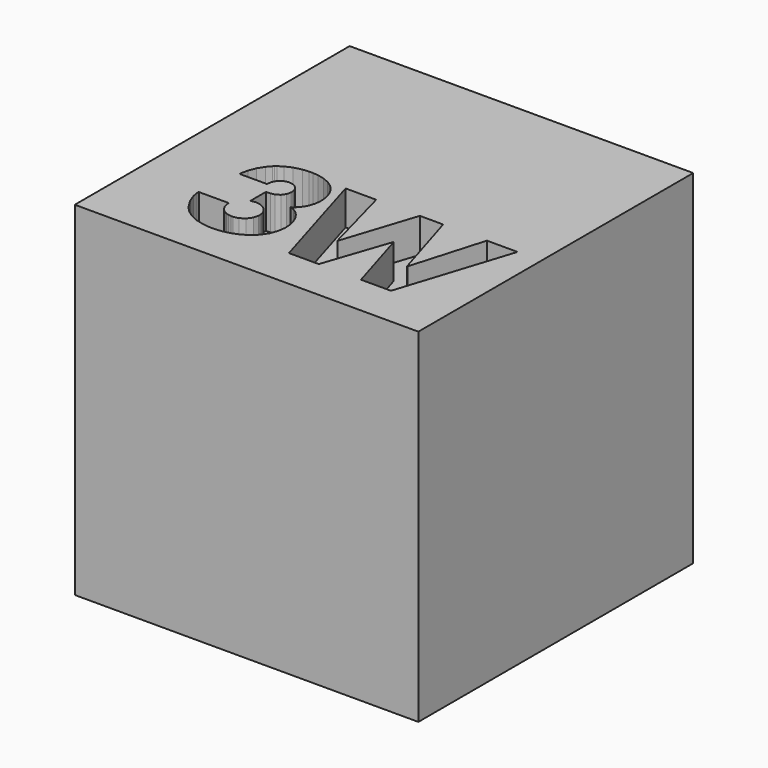
from build123d import *

# Parameters (mm, degrees)
F1_DEPTH = 36
F0_W     = 40
F0_H     = 40
F2_DEPTH = 40


with BuildPart() as f1:
    # F0 (on Top) → F1 (new body)
    with BuildSketch(Plane.XY):
        Polygon((3.101004, -10.608389), (3.065746, -10.608389), (0.779772, -2.113194), (-2.783486, -2.113194), (1.146619, -15.272514), (4.618077, -15.272514), (7.200689, -7.644909), (7.235946, -7.644909), (9.536348, -15.272514), (13.029041, -15.272514), (17.234143, -2.113194), (13.670884, -2.113194), (11.194501, -10.608389), (11.159193, -10.608389), (8.576581, -2.113194), (5.860053, -2.113194), align=None)
        Polygon((-12.065109, -5.657147), (-12.090155, -5.902169), (-8.900907, -5.902169), (-8.903396, -5.753063), (-8.811646, -5.30488), (-8.53599, -4.823371), (-8.093396, -4.501942), (-7.651259, -4.385146), (-7.503778, -4.385146), (-7.371285, -4.385146), (-6.97294, -4.479131), (-6.547974, -4.746761), (-6.265765, -5.164868), (-6.163143, -5.574948), (-6.163143, -5.711709), (-6.163143, -5.863254), (-6.275062, -6.31865), (-6.586788, -6.773437), (-7.062302, -7.058949), (-7.515362, -7.158167), (-7.666144, -7.158167), (-8.012111, -7.158167), (-8.012111, -9.444141), (-7.964408, -9.430119), (-7.723501, -9.370071), (-7.495244, -9.338319), (-7.419192, -9.338319), (-7.330998, -9.338319), (-7.065807, -9.373119), (-6.73122, -9.473962), (-6.423914, -9.634093), (-6.152983, -9.847109), (-5.926707, -10.107067), (-5.754384, -10.406956), (-5.644446, -10.74068), (-5.605887, -11.011916), (-5.605887, -11.102294), (-5.605887, -11.283457), (-5.745849, -11.82725), (-6.131747, -12.383744), (-6.713287, -12.740329), (-7.258807, -12.86632), (-7.440427, -12.86632), (-7.538274, -12.86632), (-7.831253, -12.828523), (-8.185654, -12.720821), (-8.498548, -12.54992), (-8.765314, -12.322781), (-8.981175, -12.046871), (-9.141255, -11.729099), (-9.240828, -11.376578), (-9.274968, -11.091321), (-9.274968, -10.996472), (-12.767661, -10.996472), (-12.77457, -11.21782), (-12.657927, -11.886791), (-12.32334, -12.784172), (-11.834921, -13.61683), (-11.421234, -14.152088), (-11.26466, -14.312778), (-11.075064, -14.506286), (-10.416608, -14.999647), (-9.469847, -15.458285), (-8.43982, -15.714615), (-7.616256, -15.794543), (-7.341768, -15.794543), (-7.098931, -15.794543), (-6.370469, -15.725091), (-5.438289, -15.517825), (-4.572812, -15.173845), (-3.802438, -14.693697), (-3.154753, -14.07878), (-2.657546, -13.329642), (-2.338606, -12.447959), (-2.22623, -11.687441), (-2.22623, -11.43424), (-2.22623, -11.305454), (-2.261233, -10.919658), (-2.365074, -10.39898), (-2.536534, -9.889326), (-2.774951, -9.408122), (-3.078701, -8.972894), (-3.446615, -8.601068), (-3.878033, -8.310273), (-4.244016, -8.151209), (-4.371074, -8.117934), (-4.199614, -8.021967), (-3.751483, -7.615951), (-3.323418, -6.956937), (-3.075399, -6.202566), (-2.995181, -5.612237), (-2.995181, -5.415427), (-2.995181, -5.197382), (-3.079209, -4.543905), (-3.320929, -3.778713), (-3.704643, -3.123001), (-4.214246, -2.579513), (-4.834396, -2.151753), (-5.549344, -1.842212), (-6.343442, -1.654241), (-6.986453, -1.591195), (-7.200638, -1.591195), (-7.444288, -1.591195), (-8.174934, -1.663335), (-9.066879, -1.878637), (-9.863975, -2.233901), (-10.395068, -2.586981), (-10.552252, -2.726993), (-10.709029, -2.866447), (-11.126883, -3.344908), (-11.583295, -4.078907), (-11.908535, -4.930616), align=None)
    extrude(amount=F1_DEPTH)

    # F0 (on Top) → F2 (join)
    with BuildSketch(Plane.XY):
        Rectangle(F0_W, F0_H)
        Polygon((-8.900907, -5.902169), (-12.090155, -5.902169), (-12.065109, -5.657147), (-11.908535, -4.930616), (-11.583295, -4.078907), (-11.126883, -3.344908), (-10.709029, -2.866447), (-10.552252, -2.726993), (-10.395068, -2.586981), (-9.863975, -2.233901), (-9.066879, -1.878637), (-8.174934, -1.663335), (-7.444288, -1.591195), (-7.200638, -1.591195), (-6.986453, -1.591195), (-6.343442, -1.654241), (-5.549344, -1.842212), (-4.834396, -2.151753), (-4.214246, -2.579513), (-3.704643, -3.123001), (-3.320929, -3.778713), (-3.079209, -4.543905), (-2.995181, -5.197382), (-2.995181, -5.415427), (-2.995181, -5.612237), (-3.075399, -6.202566), (-3.323418, -6.956937), (-3.751483, -7.615951), (-4.199614, -8.021967), (-4.371074, -8.117934), (-4.244016, -8.151209), (-3.878033, -8.310273), (-3.446615, -8.601068), (-3.078701, -8.972894), (-2.774951, -9.408122), (-2.536534, -9.889326), (-2.365074, -10.39898), (-2.261233, -10.919658), (-2.22623, -11.305454), (-2.22623, -11.43424), (-2.22623, -11.687441), (-2.338606, -12.447959), (-2.657546, -13.329642), (-3.154753, -14.07878), (-3.802438, -14.693697), (-4.572812, -15.173845), (-5.438289, -15.517825), (-6.370469, -15.725091), (-7.098931, -15.794543), (-7.341768, -15.794543), (-7.616256, -15.794543), (-8.43982, -15.714615), (-9.469847, -15.458285), (-10.416608, -14.999647), (-11.075064, -14.506286), (-11.26466, -14.312778), (-11.421234, -14.152088), (-11.834921, -13.61683), (-12.32334, -12.784172), (-12.657927, -11.886791), (-12.77457, -11.21782), (-12.767661, -10.996472), (-9.274968, -10.996472), (-9.274968, -11.091321), (-9.240828, -11.376578), (-9.141255, -11.729099), (-8.981175, -12.046871), (-8.765314, -12.322781), (-8.498548, -12.54992), (-8.185654, -12.720821), (-7.831253, -12.828523), (-7.538274, -12.86632), (-7.440427, -12.86632), (-7.258807, -12.86632), (-6.713287, -12.740329), (-6.131747, -12.383744), (-5.745849, -11.82725), (-5.605887, -11.283457), (-5.605887, -11.102294), (-5.605887, -11.011916), (-5.644446, -10.74068), (-5.754384, -10.406956), (-5.926707, -10.107067), (-6.152983, -9.847109), (-6.423914, -9.634093), (-6.73122, -9.473962), (-7.065807, -9.373119), (-7.330998, -9.338319), (-7.419192, -9.338319), (-7.495244, -9.338319), (-7.723501, -9.370071), (-7.964408, -9.430119), (-8.012111, -9.444141), (-8.012111, -7.158167), (-7.666144, -7.158167), (-7.515362, -7.158167), (-7.062302, -7.058949), (-6.586788, -6.773437), (-6.275062, -6.31865), (-6.163143, -5.863254), (-6.163143, -5.711709), (-6.163143, -5.574948), (-6.265765, -5.164868), (-6.547974, -4.746761), (-6.97294, -4.479131), (-7.371285, -4.385146), (-7.503778, -4.385146), (-7.651259, -4.385146), (-8.093396, -4.501942), (-8.53599, -4.823371), (-8.811646, -5.30488), (-8.903396, -5.753063), align=None, mode=Mode.SUBTRACT)
        Polygon((0.779772, -2.113194), (3.065746, -10.608389), (3.101004, -10.608389), (5.860053, -2.113194), (8.576581, -2.113194), (11.159193, -10.608389), (11.194501, -10.608389), (13.670884, -2.113194), (17.234143, -2.113194), (13.029041, -15.272514), (9.536348, -15.272514), (7.235946, -7.644909), (7.200689, -7.644909), (4.618077, -15.272514), (1.146619, -15.272514), (-2.783486, -2.113194), align=None, mode=Mode.SUBTRACT)
    extrude(amount=F2_DEPTH)


solid = f1.part
